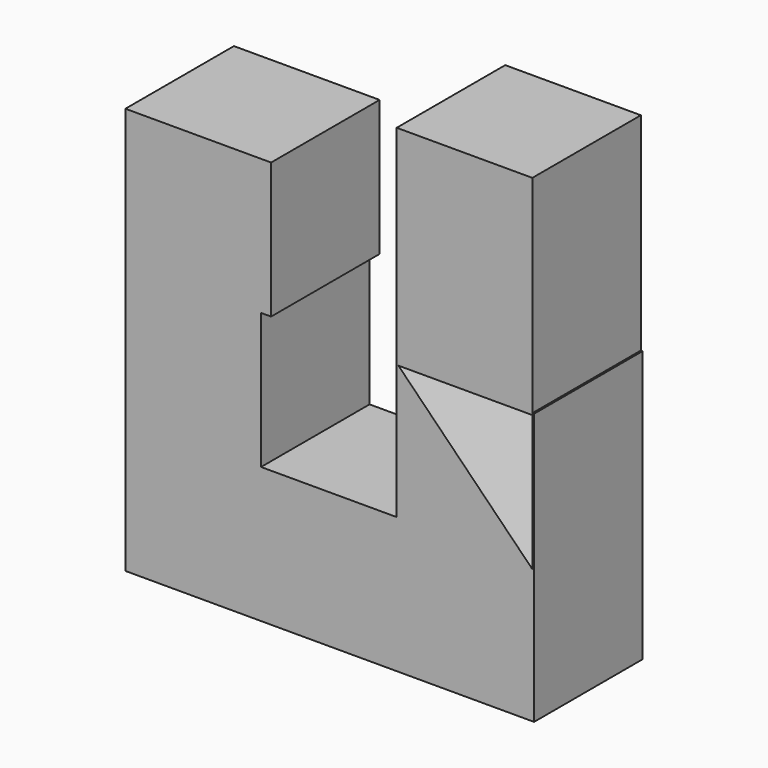
from build123d import *

# Parameters (mm, degrees)
F0_W     = 25.4
F0_H     = 25.4
F0_H_2   = 13.3811374086
F0_H_3   = 11.694591806
F0_H_4   = 13.705408194
F1_DEPTH = 25.4


with BuildPart() as f1:
    # F0 (on Front) → F1 (new body)
    with BuildSketch(Plane.XZ):
        with Locations((-12.7, 12.7)):
            Rectangle(F0_W, F0_H)
        Polygon((0, 25.4), (0, 0), (25.7246118264, 0), (25.7246118264, 25.4), (25.4, 25.4), (25.4, 25.0757292146), (25.079816854, 25.4), align=None)
        with Locations((-38.1, 12.7)):
            Rectangle(F0_W, F0_H)
        Polygon((0, 50.4757292146), (0, 25.4), (25.079816854, 25.4), (0.320183146, 50.4757292146), align=None)
        with Locations((-38.1, 38.1)):
            Rectangle(F0_W, F0_H)
        Polygon((0, 50.8), (0, 50.4757292146), (0.320183146, 50.4757292146), align=None)
        Polygon((25.4, 25.4), (25.7246118264, 25.4), (25.7246118264, 50.8), (25.4, 50.8), (25.4, 50.4757292146), align=None)
        Polygon((-50.8, 50.8), (-25.4, 50.8), (-23.5217092774, 50.8), (-23.5217092774, 76.2), (-50.8, 76.2), align=None)
        Polygon((0, 50.8), (0.320183146, 50.4757292146), (25.4, 50.4757292146), (25.4, 50.8), align=None)
        with Locations((12.7, 57.4905687043)):
            Rectangle(F0_W, F0_H_2)
        with Locations((12.7, 70.0284333116)):
            Rectangle(F0_W, F0_H_3)
        with Locations((12.7, 82.7284333116)):
            Rectangle(F0_W, F0_H_4)
    extrude(amount=F1_DEPTH)


solid = f1.part
